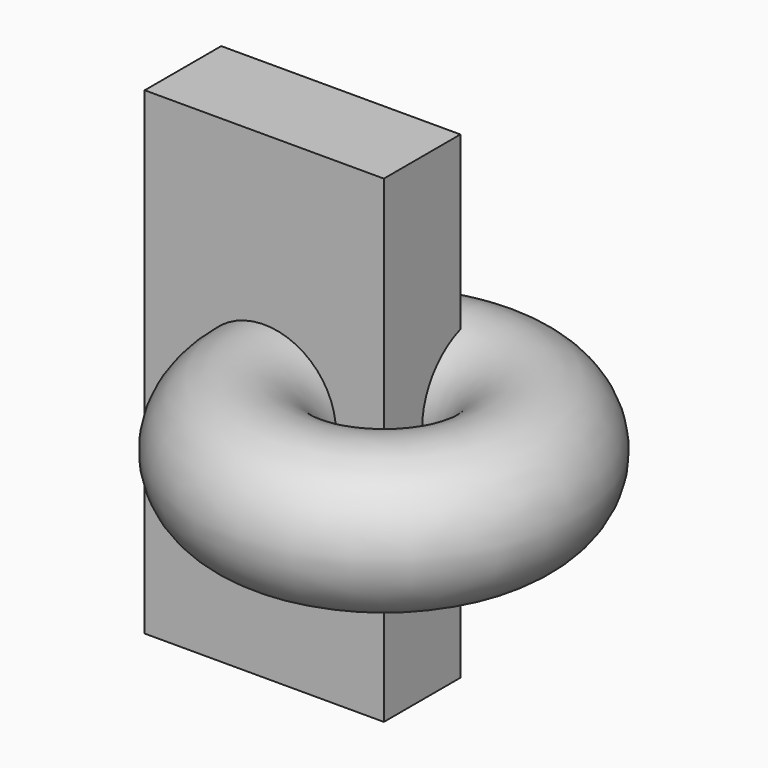
from build123d import *

# Parameters (mm, degrees)
F0_W     = 127
F0_H     = 254
F1_DEPTH = 50.8
F2_R     = 38.1


with BuildPart() as f1:
    # F0 (on Front) → F1 (new body)
    with BuildSketch(Plane.XZ):
        Rectangle(F0_W, F0_H)
    extrude(amount=F1_DEPTH)

    # F2 (on face) → F3 (revolve)
    with BuildSketch(Plane.XZ.offset(50.8)):
        Circle(F2_R)
    revolve(axis=Axis((63.5, -50.8, 0), (0, 0, 1)))


solid = f1.part
